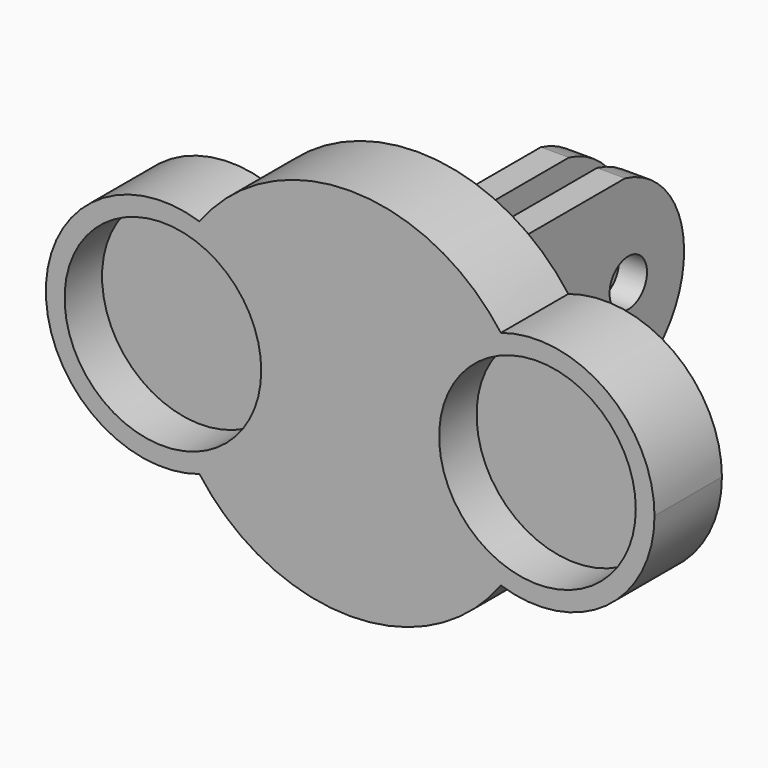
from build123d import *

# Parameters (mm, degrees)
F1_DEPTH = 9
F2_W     = 3
F2_H     = 20
F3_DEPTH = 30
F4_R     = 2.5
F5_DEPTH = 10
F7_DEPTH = 10
F8_R     = 10.5
F9_DEPTH = 5


with BuildPart() as f1:
    # F0 (on Front) → F1 (new body)
    with BuildSketch(Plane.XZ):
        with BuildLine():
            ThreePointArc((16.09375, -11.873971995), (18.998355192, -6.25), (20, 0))
            ThreePointArc((20, 0), (18.998355192, 6.25), (16.09375, 11.873971995))
            ThreePointArc((16.09375, 11.873971995), (7.5, 0), (16.09375, -11.873971995))
        make_face()
        with BuildLine():
            ThreePointArc((16.09375, 11.873971995), (18.998355192, 6.25), (20, 0))
            ThreePointArc((20, 0), (18.998355192, -6.25), (16.09375, -11.873971995))
            ThreePointArc((16.09375, -11.873971995), (27.3287746247, -10.1261573413), (32.5, 0))
            ThreePointArc((32.5, 0), (27.3287746247, 10.1261573413), (16.09375, 11.873971995))
        make_face()
        with BuildLine():
            ThreePointArc((16.09375, -11.873971995), (7.5, 0), (16.09375, 11.873971995))
            ThreePointArc((16.09375, 11.873971995), (0, 20), (-16.09375, 11.873971995))
            ThreePointArc((-16.09375, 11.873971995), (-9.8738426587, 7.3287746247), (-7.5, 0))
            ThreePointArc((-7.5, 0), (-9.8738426587, -7.3287746247), (-16.09375, -11.873971995))
            ThreePointArc((-16.09375, -11.873971995), (0, -20), (16.09375, -11.873971995))
        make_face()
        with BuildLine():
            ThreePointArc((-7.5, 0), (-9.8738426587, 7.3287746247), (-16.09375, 11.873971995))
            ThreePointArc((-16.09375, 11.873971995), (-20, 0), (-16.09375, -11.873971995))
            ThreePointArc((-16.09375, -11.873971995), (-9.8738426587, -7.3287746247), (-7.5, 0))
        make_face()
        with BuildLine():
            ThreePointArc((-16.09375, -11.873971995), (-20, 0), (-16.09375, 11.873971995))
            ThreePointArc((-16.09375, 11.873971995), (-32.5, 0), (-16.09375, -11.873971995))
        make_face()
    extrude(amount=F1_DEPTH)

    # F2 (on face) → F3 (join)
    with BuildSketch(Plane(origin=(0, 0, 0), x_dir=(-1, 0, 0), z_dir=(0, 1, 0))):
        with Locations((-3, 0)):
            Rectangle(F2_W, F2_H)
        with Locations((3, 0)):
            Rectangle(F2_W, F2_H)
    extrude(amount=F3_DEPTH)

    # F4 (on face) → F5 (cut)
    with BuildSketch(Plane(origin=(-4.5, 0, 0), x_dir=(0, -1, 0), z_dir=(-1, 0, 0))):
        with Locations((-22.5, 0)):
            Circle(F4_R)
    extrude(amount=-F5_DEPTH, mode=Mode.SUBTRACT)

    # F6 (on face) → F7 (cut)
    with BuildSketch(Plane(origin=(-4.5, 0, 0), x_dir=(0, -1, 0), z_dir=(-1, 0, 0))):
        with BuildLine():
            ThreePointArc((-22.3790090531, -10), (-29.9486686635, 0.115669367), (-22.0793280751, 10))
            Line((-22.0793280751, 10), (-30, 10))
            Line((-30, 10), (-30, -10))
            Line((-30, -10), (-22.3790090531, -10))
        make_face()
    extrude(amount=-F7_DEPTH, mode=Mode.SUBTRACT)

    # F8 (on face) → F9 (cut)
    with BuildSketch(Plane.XZ.offset(9)):
        with Locations((-20, 0)):
            Circle(F8_R)
        with Locations((20, 0)):
            Circle(F8_R)
    extrude(amount=-F9_DEPTH, mode=Mode.SUBTRACT)


solid = f1.part
